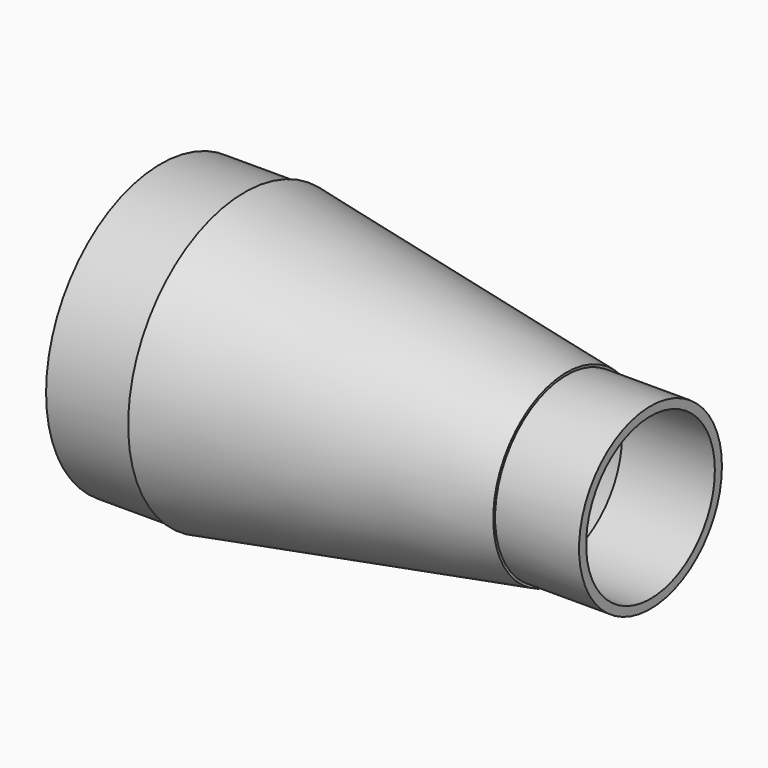
from build123d import *

# Parameters (mm, degrees)
F2_R     = 20.7899
F0_R     = 33.02
F4_R     = 32.4866
F5_DEPTH = 19.05
F6_R     = 20.2565
F7_DEPTH = 19.05
F8_T     = -2.0066


with BuildPart() as f3:
    # F2 (on offset) → F3 section 0
    with BuildSketch(Plane.YZ.offset(73.025)):
        Circle(F2_R)
    # F0 (on Right) → F3 section 1
    with BuildSketch(Plane.YZ):
        Circle(F0_R)
    loft()

    # F4 (on face) → F5 (join)
    with BuildSketch(Plane(origin=(0, 0, 0), x_dir=(0, -1, 0), z_dir=(-1, 0, 0))):
        Circle(F4_R)
    extrude(amount=F5_DEPTH)

    # F6 (on face) → F7 (join)
    with BuildSketch(Plane.YZ.offset(73.025)):
        Circle(F6_R)
    extrude(amount=F7_DEPTH)

    # F8
    f8_openings = [f3.faces().sort_by_distance(p)[0] for p in [
        (92.075, 0, 0),
        (-19.05, 0, 0),
    ]]
    offset(amount=F8_T, openings=f8_openings, kind=Kind.INTERSECTION)


solid = f3.part
